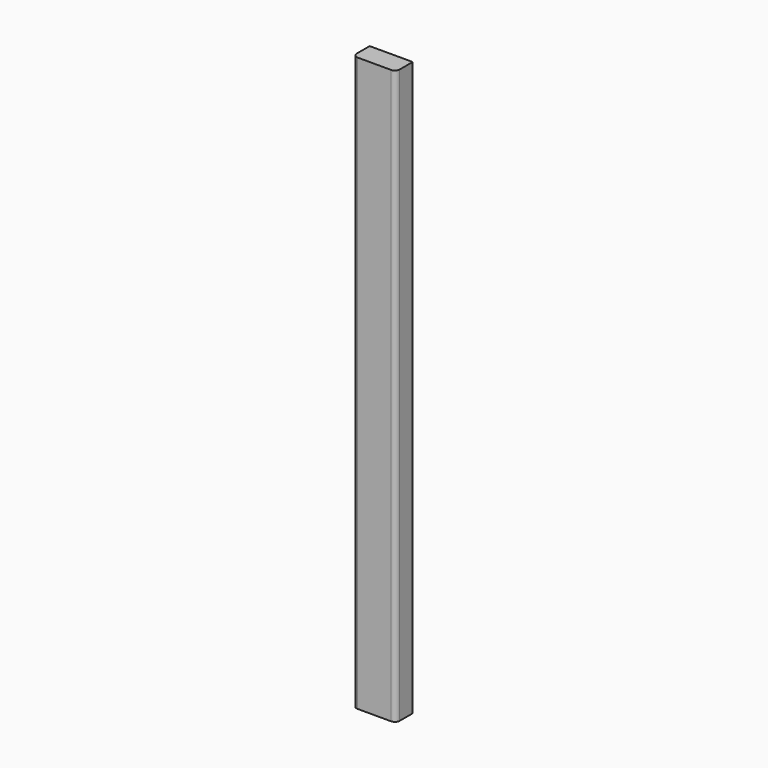
from build123d import *

# Parameters (mm, degrees)
F1_DEPTH = 600


with BuildPart() as f1:
    # F0 (on Top) → F1 (new body)
    with BuildSketch(Plane.XY):
        with BuildLine():
            ThreePointArc((0, 5), (1.464466, 1.464466), (5, 0))
            Line((5, 0), (40, 0))
            ThreePointArc((40, 0), (43.535534, 1.464466), (45, 5))
            Line((45, 5), (45, 22))
            Line((45, 22), (0, 22))
            Line((0, 22), (0, 5))
        make_face()
    extrude(amount=F1_DEPTH)


solid = f1.part
